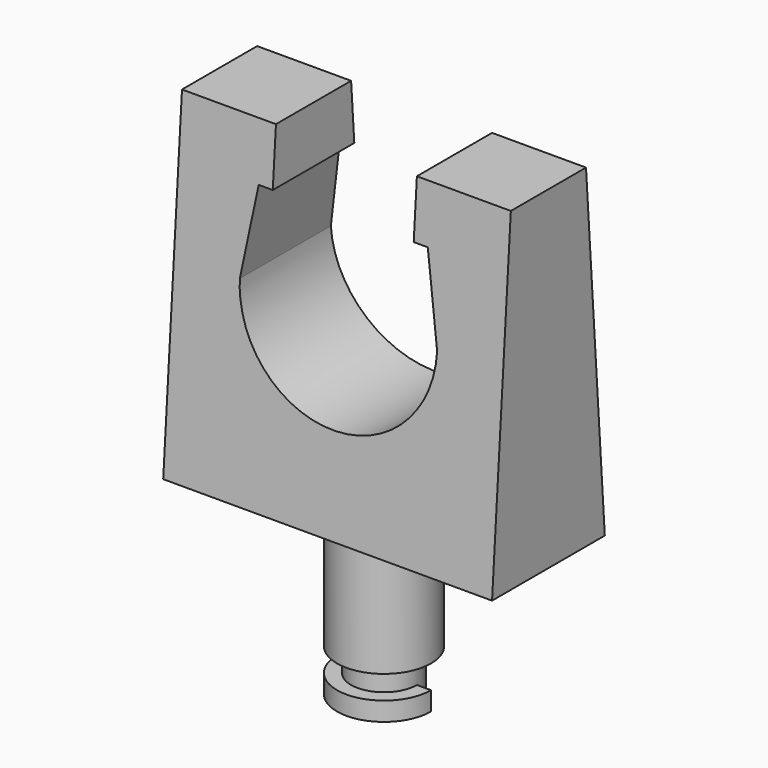
from build123d import *

# Parameters (mm, degrees)
F1_DEPTH = 15
F3_DEPTH = 70.001
F7_DEPTH = 6


with BuildPart() as f1:
    # F0 (on Front) → F1 (new body, symmetric)
    with BuildSketch(Plane.XZ):
        with BuildLine():
            Line((-35, 71), (-35, 0))
            Line((-35, 0), (35, 0))
            Line((35, 0), (35, 71))
            Line((35, 71), (15, 71))
            Line((15, 71), (15, 59))
            Line((15, 59), (18, 59))
            Line((18, 59), (21, 41))
            ThreePointArc((21, 41), (0, 20), (-21, 41))
            Line((-21, 41), (-18, 59))
            Line((-18, 59), (-15, 59))
            Line((-15, 59), (-15, 71))
            Line((-15, 71), (-35, 71))
        make_face()
    extrude(amount=F1_DEPTH, both=True)

    # F2 (on face) → F3 (cut, through all)
    with BuildSketch(Plane(origin=(-35, 0, 0), x_dir=(0, -1, 0), z_dir=(-1, 0, 0))):
        Polygon((-10, 71), (-15, 71), (-15, 0), align=None)
        Polygon((10, 71), (15, 0), (15, 71), align=None)
    extrude(amount=-F3_DEPTH, mode=Mode.SUBTRACT)

    # F4 (on Front) → F5 (revolve)
    with BuildSketch(Plane.XZ):
        Polygon((10, 0), (0, 0), (0, -35), (10, -35), (10, -31), (7, -31), (7, -26), (10, -26), align=None)
    revolve(axis=Axis((0, 0, -17.5), (0, 0, -1)))

    # F6 (on face) → F7 (cut)
    with BuildSketch(Plane(origin=(0, 0, -35), x_dir=(1, 0, 0), z_dir=(0, 0, -1))):
        with BuildLine():
            Line((17, 0), (7, 0))
            ThreePointArc((7, 0), (0, -7), (-7, 0))
            Line((-7, 0), (-17, 0))
            Line((-17, 0), (-17, -25.996203))
            Line((-17, -25.996203), (17, -25.996203))
            Line((17, -25.996203), (17, 0))
        make_face()
    extrude(amount=-F7_DEPTH, mode=Mode.SUBTRACT)


solid = f1.part
